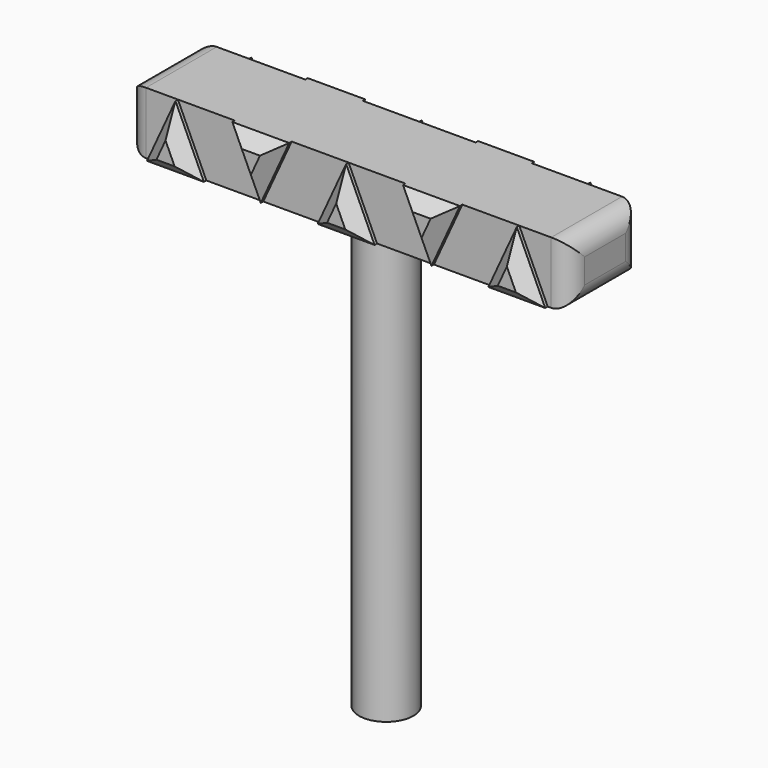
from build123d import *

# Parameters (mm, degrees)
F0_W      = 79.5655027032
F0_H      = 36.2267494202
F1_DEPTH  = 12.7
F2_DEPTH  = 12.7
F3_R      = 11.1269376105
F4_DEPTH  = 177.8
F7_DEPTH  = 50.8
F8_DEPTH  = 50.8
F11_DEPTH = 6.35
F12_SIZE  = 5.08
F13_DEPTH = 6.35
F14_SIZE  = 5.08
F15_R     = 7.62
F16_R     = 7.62


with BuildPart() as f1:
    # F0 (on Top) → F1 (new body)
    with BuildSketch(Plane.XY):
        with Locations((-0.5556233227, -0.4444997758)):
            Rectangle(F0_W, F0_H)
    extrude(amount=F1_DEPTH)

    # F2 (add): a face of the model
    f2_faces = [f1.faces().sort_by_distance(p)[0] for p in [
        (-0.5556233227, -0.4444997758, 0),
    ]]
    extrude(f2_faces, amount=F2_DEPTH)

    # F3 (on face) → F4 (join)
    with BuildSketch(Plane(origin=(0, 0, -12.7), x_dir=(1, 0, 0), z_dir=(0, 0, -1))):
        Circle(F3_R)
    extrude(amount=F4_DEPTH)

    # F7 (add): a face of the model
    f7_faces = [f1.faces().sort_by_distance(p)[0] for p in [
        (-40.3383746743, -0.4444997758, 0),
    ]]
    extrude(f7_faces, amount=F7_DEPTH)

    # F8 (add): a face of the model
    f8_faces = [f1.faces().sort_by_distance(p)[0] for p in [
        (39.2271280289, -0.4444997758, 0),
    ]]
    extrude(f8_faces, amount=F8_DEPTH)

    # F9 (on face) → F11 (join)
    with BuildSketch(Plane.XZ.offset(18.5578744859)):
        Polygon((11.0919512808, -12.7), (-0.5556233227, 12.7), (-12.2015299276, -12.7), align=None)
        Polygon((46.031339094, 12.7), (22.7378578857, 12.7), (34.3854324892, -12.7), align=None)
        Polygon((69.3248221651, 12.7), (57.6780801639, -12.7), (80.9723967686, -12.7), align=None)
        Polygon((-35.4950129986, -12.7), (-23.8482709974, 12.7), (-47.1425876021, 12.7), align=None)
        Polygon((-82.083646208, -12.7), (-58.7893296033, -12.7), (-70.4369042069, 12.7), align=None)
    extrude(amount=F11_DEPTH)

    # F12
    f12_edges = [f1.edges().sort_by_distance(p)[0] for p in [
        (-70.436488, -24.907874, -12.7),
        (-64.613117, -24.907874, 0),
        (-76.260275, -24.907874, 0),
        (-41.3188, -24.907874, 0),
        (-29.671642, -24.907874, 0),
        (-35.495429, -24.907874, 12.7),
        (5.268164, -24.907874, 0),
        (-6.378577, -24.907874, 0),
        (-0.554789, -24.907874, -12.7),
        (34.384598, -24.907874, 12.7),
        (28.561645, -24.907874, 0),
        (40.208386, -24.907874, 0),
        (75.148609, -24.907874, 0),
        (63.501451, -24.907874, 0),
        (69.325238, -24.907874, -12.7),
    ]]
    chamfer(f12_edges, length=F12_SIZE)

    # F10 (on face) → F13 (join)
    with BuildSketch(Plane(origin=(0, 17.6688749343, 0), x_dir=(-1, 0, 0), z_dir=(0, 1, 0))):
        Polygon((12.1067352593, -12.7), (0.5556233227, 12.7), (-10.8906552196, -12.7), align=None)
        Polygon((47.2631566226, 12.7), (23.6892774701, 12.7), (35.5443507433, -12.7), align=None)
        Polygon((70.291981101, 12.7), (58.8457025588, -12.7), (81.8430930376, -12.7), align=None)
        Polygon((-33.8880456984, -12.7), (-22.4417671561, 12.7), (-45.439157635, 12.7), align=None)
        Polygon((-79.8828266561, -12.7), (-56.8854361773, -12.7), (-68.4365481138, 12.7), align=None)
    extrude(amount=F13_DEPTH)

    # F14
    f14_edges = [f1.edges().sort_by_distance(p)[0] for p in [
        (68.384131, 24.018875, -12.7),
        (62.660992, 24.018875, 0),
        (74.159687, 24.018875, 0),
        (28.164906, 24.018875, 0),
        (33.940462, 24.018875, 12.7),
        (39.663602, 24.018875, 0),
        (-0.60804, 24.018875, -12.7),
        (-6.331179, 24.018875, 0),
        (5.167516, 24.018875, 0),
        (-35.476217, 24.018875, 12.7),
        (-29.616814, 24.018875, 0),
        (-41.403754, 24.018875, 0),
        (-76.067537, 24.018875, 0),
        (-64.568842, 24.018875, 0),
        (-70.344398, 24.018875, -12.7),
    ]]
    chamfer(f14_edges, length=F14_SIZE)

    # F15
    f15_edges = [f1.edges().sort_by_distance(p)[0] for p in [
        (90.027128, -0.4445, 12.7),
        (90.027128, 17.668875, 0),
        (90.027128, -0.4445, -12.7),
        (90.027128, -18.557874, 0),
    ]]
    fillet(f15_edges, radius=F15_R)

    # F16
    f16_edges = [f1.edges().sort_by_distance(p)[0] for p in [
        (-91.138375, 17.668875, 0),
        (-91.138375, -0.4445, 12.7),
        (-91.138375, -18.557874, 0),
        (-91.138375, -0.4445, -12.7),
    ]]
    fillet(f16_edges, radius=F16_R)


solid = f1.part
